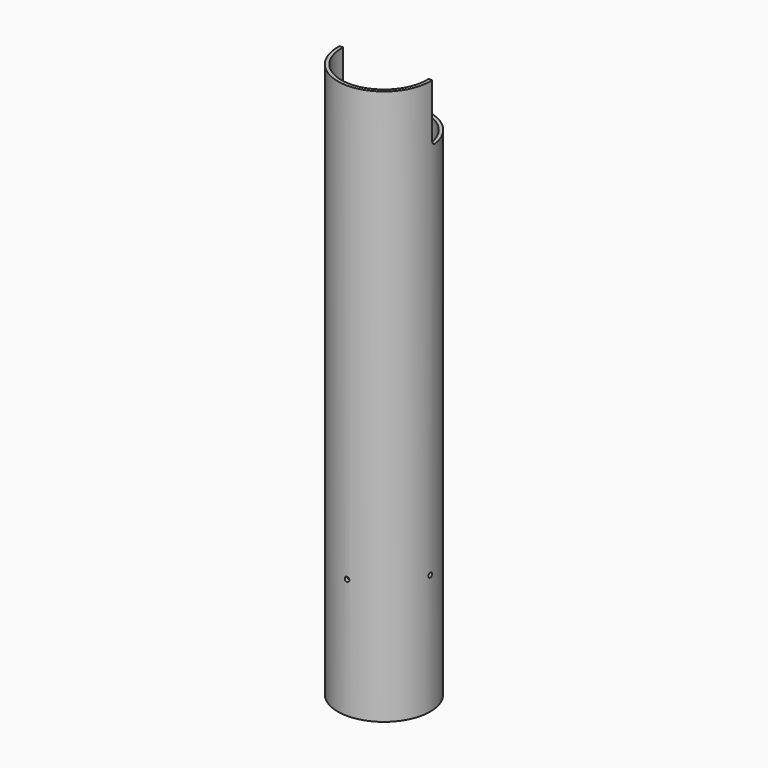
from build123d import *

# Parameters (mm, degrees)
SKETCH_R             = 20
SKETCH_R_2           = 18.5
PAD_DEPTH            = 240
SKETCH001_R          = 1
POCKET_DEPTH         = 20.001
POCKET_DEPTH_BACK    = -20.001
SKETCH002_R          = 1
POCKET001_DEPTH      = 20.001
POCKET001_DEPTH_BACK = -20.001


with BuildPart() as part:
    # Sketch → Pad (new body)
    with BuildSketch(Plane.XY):
        Circle(SKETCH_R)
        Circle(SKETCH_R_2, mode=Mode.SUBTRACT)
    extrude(amount=PAD_DEPTH)

    # Sketch001 → Pocket (cut, two sides)
    with BuildSketch(Plane.YZ) as pocket_sk:
        with Locations((0, 52)):
            Circle(SKETCH001_R)
        with BuildLine():
            Line((1, 240), (23, 240))
            Line((23, 240), (23, 215))
            Line((23, 215), (3, 215))
            ThreePointArc((1, 217), (1.585786, 215.585786), (3, 215))
            Line((1, 217), (1, 240))
        make_face()
    extrude(amount=-POCKET_DEPTH, mode=Mode.SUBTRACT)
    extrude(pocket_sk.sketch, amount=-POCKET_DEPTH_BACK, mode=Mode.SUBTRACT)

    # Sketch002 → Pocket001 (cut, two sides)
    with BuildSketch(Plane.XZ) as pocket001_sk:
        with Locations((0, 52)):
            Circle(SKETCH002_R)
    extrude(amount=-POCKET001_DEPTH, mode=Mode.SUBTRACT)
    extrude(pocket001_sk.sketch, amount=-POCKET001_DEPTH_BACK, mode=Mode.SUBTRACT)


solid = part.part
